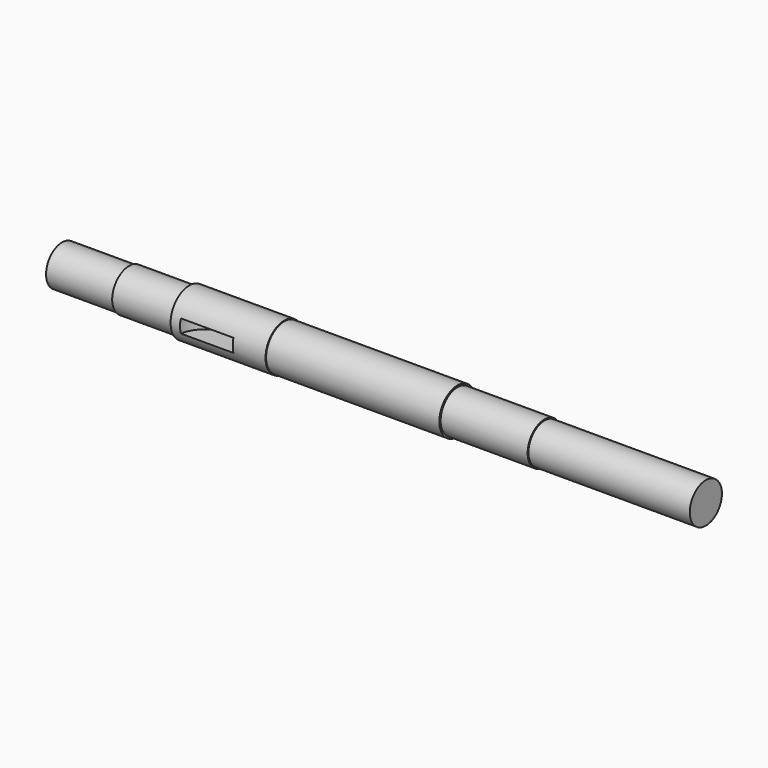
from build123d import *

# Parameters (mm, degrees)
F0_R      = 9.525
F1_DEPTH  = 31.75
F2_R      = 9.99744
F3_DEPTH  = 28.575
F4_R      = 11.1125
F5_DEPTH  = 45.0342
F6_R      = 10.7696
F7_DEPTH  = 82.169
F8_R      = 9.99744
F9_DEPTH  = 41.275
F10_R     = 9.525
F11_DEPTH = 76.5302
F12_R     = 12.5854341712
F13_DEPTH = 3.175
F14_DEPTH = 3.175


with BuildPart() as f1:
    # F0 (on Right) → F1 (new body)
    with BuildSketch(Plane.YZ):
        Circle(F0_R)
    extrude(amount=F1_DEPTH)

    # F2 (on face) → F3 (join)
    with BuildSketch(Plane.YZ.offset(31.75)):
        Circle(F2_R)
    extrude(amount=F3_DEPTH)

    # F4 (on face) → F5 (join)
    with BuildSketch(Plane.YZ.offset(60.325)):
        Circle(F4_R)
    extrude(amount=F5_DEPTH)

    # F6 (on face) → F7 (join)
    with BuildSketch(Plane.YZ.offset(105.3592)):
        Circle(F6_R)
    extrude(amount=F7_DEPTH)

    # F8 (on face) → F9 (join)
    with BuildSketch(Plane.YZ.offset(187.5282)):
        Circle(F8_R)
    extrude(amount=F9_DEPTH)

    # F10 (on face) → F11 (join)
    with BuildSketch(Plane.YZ.offset(228.8032)):
        Circle(F10_R)
    extrude(amount=F11_DEPTH)

    # F12 (on Top) → F13 (cut)
    with BuildSketch(Plane.XY):
        with Locations((77.320471406, -12.4823525548)):
            Circle(F12_R)
    extrude(amount=F13_DEPTH, mode=Mode.SUBTRACT)

    # F14 (cut): a face of the model
    f14_faces = [f1.faces().sort_by_distance(p)[0] for p in [
        (77.320471406, -6.3933996549, 0),
    ]]
    extrude(f14_faces, amount=-F14_DEPTH, mode=Mode.SUBTRACT)


solid = f1.part
